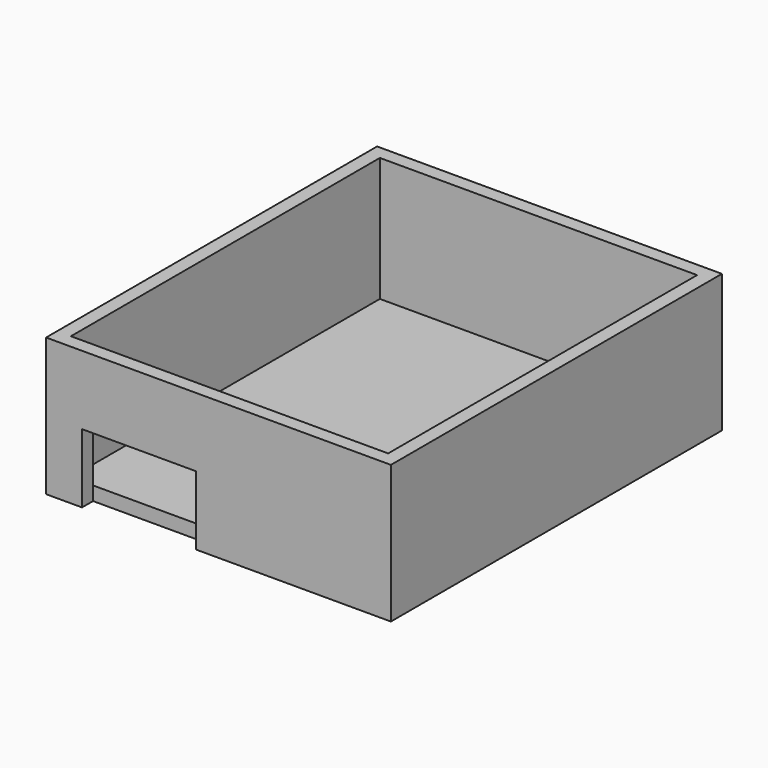
from build123d import *

# Parameters (mm, degrees)
F0_W     = 63.5
F0_H     = 25.4
F1_DEPTH = 38.1
F2_T     = -2.54
F3_W     = 21.006488
F3_H     = 12.7
F4_DEPTH = 2.54


with BuildPart() as f1:
    # F0 (on Front) → F1 (new body, symmetric)
    with BuildSketch(Plane.XZ):
        with Locations((-20.382458, 12.7)):
            Rectangle(F0_W, F0_H)
    extrude(amount=F1_DEPTH, both=True)

    # F2
    f2_openings = [f1.faces().sort_by_distance(p)[0] for p in [
        (-20.382458, 0, 25.4),
    ]]
    offset(amount=F2_T, openings=f2_openings)

    # F3 (on face) → F4 (cut)
    with BuildSketch(Plane.XZ.offset(38.1)):
        with Locations((-35.010811, 6.35)):
            Rectangle(F3_W, F3_H)
    extrude(amount=-F4_DEPTH, mode=Mode.SUBTRACT)


solid = f1.part
